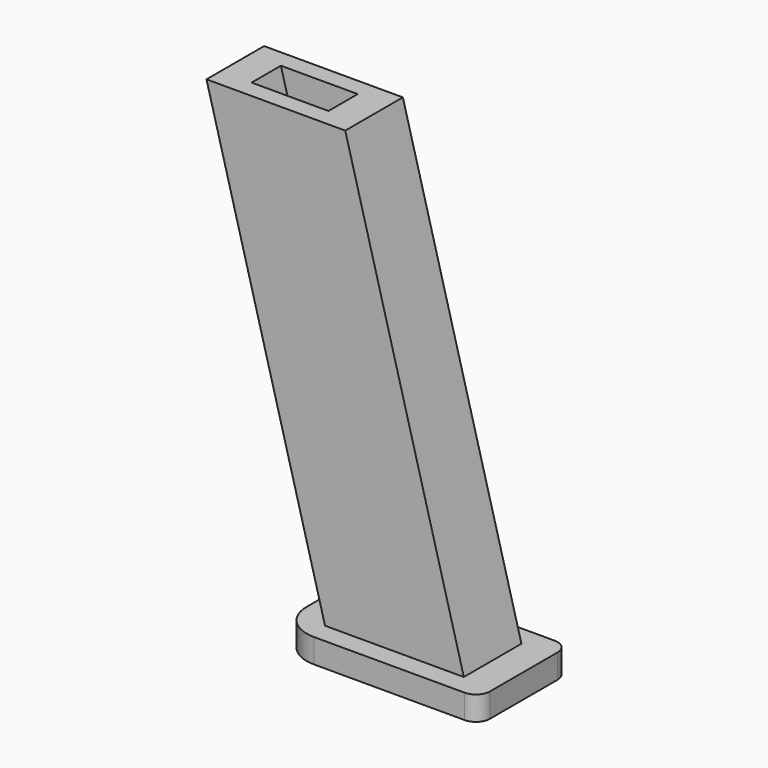
from build123d import *

# Parameters (mm, degrees)
F1_DEPTH = 8.95
F2_W     = 50
F2_H     = 28
F2_W_2   = 34.5
F2_H_2   = 17.9
F3_DEPTH = 6
F5_DEPTH = 4.55
F6_R     = 3.5
F7_R     = 9


with BuildPart() as f1:
    # F0 (on Front) → F1 (new body, symmetric)
    with BuildSketch(Plane.XZ):
        Polygon((20.541627, 50.516934), (-13.958373, 50.516934), (15.516038, -59.483066), (50.016038, -59.483066), align=None)
    extrude(amount=F1_DEPTH, both=True)

    # F2 (on face) → F3 (join)
    with BuildSketch(Plane(origin=(0, 0, -59.483066), x_dir=(1, 0, 0), z_dir=(0, 0, -1))):
        with Locations((32.766038, 0)):
            Rectangle(F2_W, F2_H)
        with Locations((32.766038, 0)):
            Rectangle(F2_W_2, F2_H_2, mode=Mode.SUBTRACT)
        with Locations((32.766038, 0)):
            Rectangle(F2_W_2, F2_H_2)
    extrude(amount=F3_DEPTH)

    # F4 (on Front) → F5 (cut, symmetric)
    with BuildSketch(Plane.XZ):
        Polygon((12.841627, 50.516934), (-6.258373, 50.516934), (20.536546, -49.483066), (39.636546, -49.483066), align=None)
    extrude(amount=F5_DEPTH, both=True, mode=Mode.SUBTRACT)

    # F6
    f6_edges = [f1.edges().sort_by_distance(p)[0] for p in [
        (57.766038, -14, -62.483066),
        (57.766038, 14, -62.483066),
    ]]
    fillet(f6_edges, radius=F6_R)

    # F7
    f7_edges = [f1.edges().sort_by_distance(p)[0] for p in [
        (7.766038, -14, -62.483066),
        (7.766038, 14, -62.483066),
    ]]
    fillet(f7_edges, radius=F7_R)


solid = f1.part
